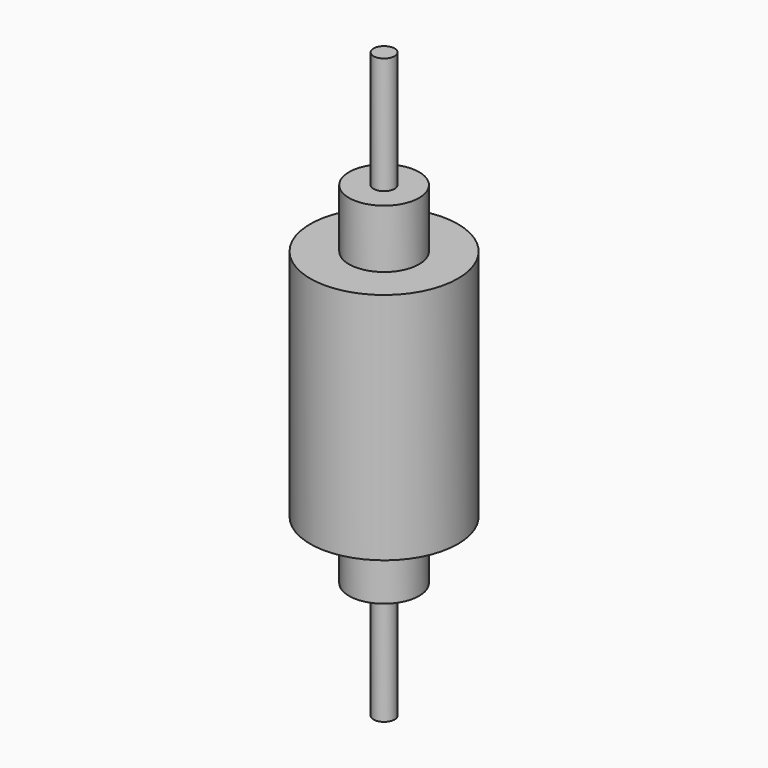
from build123d import *

# Parameters (mm, degrees)
F0_R     = 31.618646
F1_DEPTH = 100
F2_R     = 15
F3_DEPTH = 25
F4_R     = 4.5
F5_DEPTH = 50
F6_R     = 15
F7_DEPTH = 25
F8_R     = 4.5
F9_DEPTH = 50


with BuildPart() as f1:
    # F0 (on Top) → F1 (new body)
    with BuildSketch(Plane.XY):
        Circle(F0_R)
    extrude(amount=F1_DEPTH)

    # F2 (on face) → F3 (join)
    with BuildSketch(Plane(origin=(0, 0, 0), x_dir=(1, 0, 0), z_dir=(0, 0, -1))):
        Circle(F2_R)
    extrude(amount=F3_DEPTH)

    # F4 (on face) → F5 (join)
    with BuildSketch(Plane(origin=(0, 0, -25), x_dir=(1, 0, 0), z_dir=(0, 0, -1))):
        Circle(F4_R)
    extrude(amount=F5_DEPTH)

    # F6 (on face) → F7 (join)
    with BuildSketch(Plane.XY.offset(100)):
        Circle(F6_R)
    extrude(amount=F7_DEPTH)

    # F8 (on face) → F9 (join)
    with BuildSketch(Plane.XY.offset(125)):
        Circle(F8_R)
    extrude(amount=F9_DEPTH)


solid = f1.part
